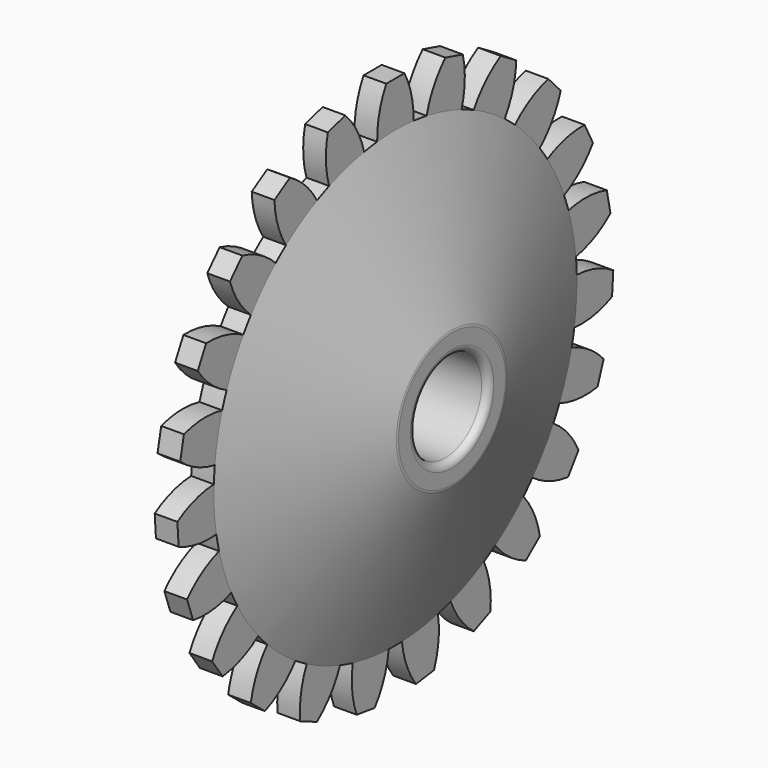
from build123d import *

# Parameters (mm, degrees)
F3_R     = 2
F4_DEPTH = 6.001
F6_DEPTH = 0.5
F7_R     = 0.3


with BuildPart() as f1:
    # F0 (on Front) → F1 (revolve)
    with BuildSketch(Plane.XZ):
        Polygon((0, 10), (0, 0), (3, 0), (3, 3), (0.5, 10), align=None)
    revolve(axis=Axis((1.5, 0, 0), (-1, 0, 0)))

    # F2: F1 across plane


with BuildPart() as f1_1:
    add(f1.part)
    add(f1.part.mirror(Plane.YZ))

    # F3 (on face) → F4 (cut, through all)
    with BuildSketch(Plane.YZ.offset(3)):
        Circle(F3_R)
    extrude(amount=-F4_DEPTH, mode=Mode.SUBTRACT)

    # F5 (on Right) → F6 (join, symmetric)
    with BuildSketch(Plane.YZ):
        with BuildLine():
            ThreePointArc((1, 9.9498743711), (0.887631248, 11.0085037256), (0.5, 12))
            Line((0.5, 12), (-0.5, 12))
            ThreePointArc((-0.5, 12), (-0.887631248, 11.0085037256), (-1, 9.9498743711))
            ThreePointArc((-1, 9.9498743711), (0, 10), (1, 9.9498743711))
        make_face()
        with BuildLine():
            ThreePointArc((-3.6473612661, 9.3111092677), (-2.6979677116, 9.6291728735), (-1.7215266914, 9.85070281))
            ThreePointArc((-1.7215266914, 9.85070281), (-2.1153432869, 10.8397585899), (-2.7561026102, 11.6899058338))
            Line((-2.7561026102, 11.6899058338), (-3.7190198976, 11.4201090626))
            ThreePointArc((-3.7190198976, 11.4201090626), (-3.8247742339, 10.3607985005), (-3.6473612661, 9.3111092677))
        make_face()
        with BuildLine():
            ThreePointArc((-6.0242144326, 7.9817817854), (-5.1958395004, 8.5441940455), (-4.3153756235, 9.0209496855))
            ThreePointArc((-4.3153756235, 9.0209496855), (-4.9614324873, 9.8670781482), (-5.8077976982, 10.5128248296))
            Line((-5.8077976982, 10.5128248296), (-6.6622171027, 9.9932408795))
            ThreePointArc((-6.6622171027, 9.9932408795), (-6.4782512121, 8.9446802481), (-6.0242144326, 7.9817817854))
        make_face()
        with BuildLine():
            ThreePointArc((-7.9542791736, 6.0604820623), (-7.3083596428, 6.8255314322), (-6.5891728872, 7.5221539909))
            ThreePointArc((-6.5891728872, 7.5221539909), (-7.4395549372, 8.1626016591), (-8.4287549997, 8.5560557008))
            Line((-8.4287549997, 8.5560557008), (-9.1113081429, 7.8252197365))
            ThreePointArc((-9.1113081429, 7.8252197365), (-8.6512659339, 6.865175981), (-7.9542791736, 6.0604820623))
        make_face()
        with BuildLine():
            ThreePointArc((-9.2944114168, 3.6897041095), (-8.878852184, 4.6006503773), (-8.3742813413, 5.4654745463))
            ThreePointArc((-8.3742813413, 5.4654745463), (-9.3659196311, 5.8527423464), (-10.424590102, 5.964723062))
            Line((-10.424590102, 5.964723062), (-10.8846551397, 5.0768378436))
            ThreePointArc((-10.8846551397, 5.0768378436), (-10.1826558383, 4.2765130174), (-9.2944114168, 3.6897041095))
        make_face()
        with BuildLine():
            ThreePointArc((-9.9452196842, 1.0452776822), (-9.7908408768, 2.0345601305), (-9.5383076581, 3.0034458576))
            ThreePointArc((-9.5383076581, 3.0034458576), (-10.5976569121, 3.1088119083), (-11.6472810457, 2.9310142005))
            Line((-11.6472810457, 2.9310142005), (-11.8507370587, 1.9519301128))
            ThreePointArc((-11.8507370587, 1.9519301128), (-10.9588447417, 1.370680647), (-9.9452196842, 1.0452776822))
        make_face()
        with BuildLine():
            ThreePointArc((-9.858436504, -1.6766722089), (-9.9766876919, -0.6824241336), (-9.9949213307, 0.3186653294))
            ThreePointArc((-9.9949213307, 0.3186653294), (-11.0434144611, 0.1343151129), (-12.006146437, -0.3200745758))
            Line((-12.006146437, -0.3200745758), (-11.9379040236, -1.317743345))
            ThreePointArc((-11.9379040236, -1.317743345), (-10.922266264, -1.6368088365), (-9.858436504, -1.6766722089))
        make_face()
        with BuildLine():
            ThreePointArc((-9.0404981877, -4.2742709927), (-9.4226092212, -3.3487961217), (-9.710257412, -2.3897491484))
            ThreePointArc((-9.710257412, -2.3897491484), (-10.6701324797, -2.8501432199), (-11.4745708715, -3.547424885))
            Line((-11.4745708715, -3.547424885), (-11.1396912593, -4.4896858071))
            ThreePointArc((-11.1396912593, -4.4896858071), (-10.0756332635, -4.5229036965), (-9.0404981877, -4.2742709927))
        make_face()
        with BuildLine():
            ThreePointArc((-7.5520674783, -6.5548666503), (-8.1696989301, -5.7668032211), (-8.7054281225, -4.9209268643))
            ThreePointArc((-8.7054281225, -4.9209268643), (-9.5054955849, -5.6232194687), (-10.0919788772, -6.5116789189))
            Line((-10.0919788772, -6.5116789189), (-9.5152985551, -7.3286488119))
            ThreePointArc((-9.5152985551, -7.3286488119), (-8.4817366369, -7.0735554802), (-7.5520674783, -6.5548666503))
        make_face()
        with BuildLine():
            ThreePointArc((-5.5035344724, -8.3493178351), (-6.3108794433, -7.757112907), (-7.0549570538, -7.0871419464))
            ThreePointArc((-7.0549570538, -7.0871419464), (-7.6358795674, -7.9792472541), (-7.9609109773, -8.9929915163))
            Line((-7.9609109773, -8.9929915163), (-7.1851996866, -9.6240794606))
            ThreePointArc((-7.1851996866, -9.6240794606), (-6.2587884052, -9.0995940133), (-5.5035344724, -8.3493178351))
        make_face()
        with BuildLine():
            ThreePointArc((-3.0468294918, -9.5245383115), (-3.9840108985, -9.1721130151), (-4.8812520948, -8.7277361319))
            ThreePointArc((-4.8812520948, -8.7277361319), (-5.1999452941, -9.7434907732), (-5.2394187289, -10.8073350731))
            Line((-5.2394187289, -10.8073350731), (-4.3222074274, -11.205736163))
            ThreePointArc((-4.3222074274, -11.205736163), (-3.5716544696, -10.4507572864), (-3.0468294918, -9.5245383115))
        make_face()
        with BuildLine():
            ThreePointArc((-0.364155106, -9.9933673533), (-1.361666491, -9.9068594604), (-2.3455269981, -9.7210340551))
            ThreePointArc((-2.3455269981, -9.7210340551), (-2.3783548666, -10.7851041551), (-2.1293427622, -11.8201480279))
            Line((-2.1293427622, -11.8201480279), (-1.1386568161, -11.956314677))
            ThreePointArc((-1.1386568161, -11.956314677), (-0.6196272612, -11.0268357005), (-0.364155106, -9.9933673533))
        make_face()
        with BuildLine():
            ThreePointArc((2.1293427622, -11.8201480279), (2.3783548666, -10.7851041551), (2.3455269981, -9.7210340551))
            ThreePointArc((2.3455269981, -9.7210340551), (1.361666491, -9.9068594604), (0.364155106, -9.9933673533))
            ThreePointArc((0.364155106, -9.9933673533), (0.6196272612, -11.0268357005), (1.1386568161, -11.956314677))
            Line((1.1386568161, -11.956314677), (2.1293427622, -11.8201480279))
        make_face()
        with BuildLine():
            ThreePointArc((5.2394187289, -10.8073350731), (5.1999452941, -9.7434907732), (4.8812520948, -8.7277361319))
            ThreePointArc((4.8812520948, -8.7277361319), (3.9840108985, -9.1721130151), (3.0468294918, -9.5245383115))
            ThreePointArc((3.0468294918, -9.5245383115), (3.5716544696, -10.4507572864), (4.3222074274, -11.205736163))
            Line((4.3222074274, -11.205736163), (5.2394187289, -10.8073350731))
        make_face()
        with BuildLine():
            ThreePointArc((7.9609109773, -8.9929915163), (7.6358795674, -7.9792472541), (7.0549570538, -7.0871419464))
            ThreePointArc((7.0549570538, -7.0871419464), (6.3108794433, -7.757112907), (5.5035344724, -8.3493178351))
            ThreePointArc((5.5035344724, -8.3493178351), (6.2587884052, -9.0995940133), (7.1851996866, -9.6240794606))
            Line((7.1851996866, -9.6240794606), (7.9609109773, -8.9929915163))
        make_face()
        with BuildLine():
            ThreePointArc((10.0919788772, -6.5116789189), (9.5054955849, -5.6232194687), (8.7054281225, -4.9209268643))
            ThreePointArc((8.7054281225, -4.9209268643), (8.1696989301, -5.7668032211), (7.5520674783, -6.5548666503))
            ThreePointArc((7.5520674783, -6.5548666503), (8.4817366369, -7.0735554802), (9.5152985551, -7.3286488119))
            Line((9.5152985551, -7.3286488119), (10.0919788772, -6.5116789189))
        make_face()
        with BuildLine():
            ThreePointArc((11.4745708715, -3.547424885), (10.6701324797, -2.8501432199), (9.710257412, -2.3897491484))
            ThreePointArc((9.710257412, -2.3897491484), (9.4226092212, -3.3487961217), (9.0404981877, -4.2742709927))
            ThreePointArc((9.0404981877, -4.2742709927), (10.0756332635, -4.5229036965), (11.1396912593, -4.4896858071))
            Line((11.1396912593, -4.4896858071), (11.4745708715, -3.547424885))
        make_face()
        with BuildLine():
            ThreePointArc((12.006146437, -0.3200745758), (11.0434144611, 0.1343151129), (9.9949213307, 0.3186653294))
            ThreePointArc((9.9949213307, 0.3186653294), (9.9987302521, 0.1593528985), (10, 0))
            ThreePointArc((10, 0), (9.9645462777, -0.8413188931), (9.858436504, -1.6766722089))
            ThreePointArc((9.858436504, -1.6766722089), (10.922266264, -1.6368088365), (11.9379040236, -1.317743345))
            Line((11.9379040236, -1.317743345), (12.006146437, -0.3200745758))
        make_face()
        with BuildLine():
            ThreePointArc((11.6472810457, 2.9310142005), (10.5976569121, 3.1088119083), (9.5383076581, 3.0034458576))
            ThreePointArc((9.5383076581, 3.0034458576), (9.7908408768, 2.0345601305), (9.9452196842, 1.0452776822))
            ThreePointArc((9.9452196842, 1.0452776822), (10.9588447417, 1.370680647), (11.8507370587, 1.9519301128))
            Line((11.8507370587, 1.9519301128), (11.6472810457, 2.9310142005))
        make_face()
        with BuildLine():
            ThreePointArc((10.424590102, 5.964723062), (9.3659196311, 5.8527423464), (8.3742813413, 5.4654745463))
            ThreePointArc((8.3742813413, 5.4654745463), (8.878852184, 4.6006503773), (9.2944114168, 3.6897041095))
            ThreePointArc((9.2944114168, 3.6897041095), (10.1826558383, 4.2765130174), (10.8846551397, 5.0768378436))
            Line((10.8846551397, 5.0768378436), (10.424590102, 5.964723062))
        make_face()
        with BuildLine():
            ThreePointArc((8.4287549997, 8.5560557008), (7.4395549372, 8.1626016591), (6.5891728872, 7.5221539909))
            ThreePointArc((6.5891728872, 7.5221539909), (7.3083596428, 6.8255314322), (7.9542791736, 6.0604820623))
            ThreePointArc((7.9542791736, 6.0604820623), (8.6512659339, 6.865175981), (9.1113081429, 7.8252197365))
            Line((9.1113081429, 7.8252197365), (8.4287549997, 8.5560557008))
        make_face()
        with BuildLine():
            ThreePointArc((5.8077976982, 10.5128248296), (4.9614324873, 9.8670781482), (4.3153756235, 9.0209496855))
            ThreePointArc((4.3153756235, 9.0209496855), (5.1958395004, 8.5441940455), (6.0242144326, 7.9817817854))
            ThreePointArc((6.0242144326, 7.9817817854), (6.4782512121, 8.9446802481), (6.6622171027, 9.9932408795))
            Line((6.6622171027, 9.9932408795), (5.8077976982, 10.5128248296))
        make_face()
        with BuildLine():
            ThreePointArc((2.7561026102, 11.6899058338), (2.1153432869, 10.8397585899), (1.7215266914, 9.85070281))
            ThreePointArc((1.7215266914, 9.85070281), (2.6979677116, 9.6291728735), (3.6473612661, 9.3111092677))
            ThreePointArc((3.6473612661, 9.3111092677), (3.8247742339, 10.3607985005), (3.7190198976, 11.4201090626))
            Line((3.7190198976, 11.4201090626), (2.7561026102, 11.6899058338))
        make_face()
    extrude(amount=F6_DEPTH, both=True)

    # F7
    f7_edges = [f1_1.edges().sort_by_distance(p)[0] for p in [
        (3, -2, 0),
        (-3, -2, 0),
        (-3, 0, -3),
        (3, 0, -3),
    ]]
    fillet(f7_edges, radius=F7_R)


solid = f1_1.part
